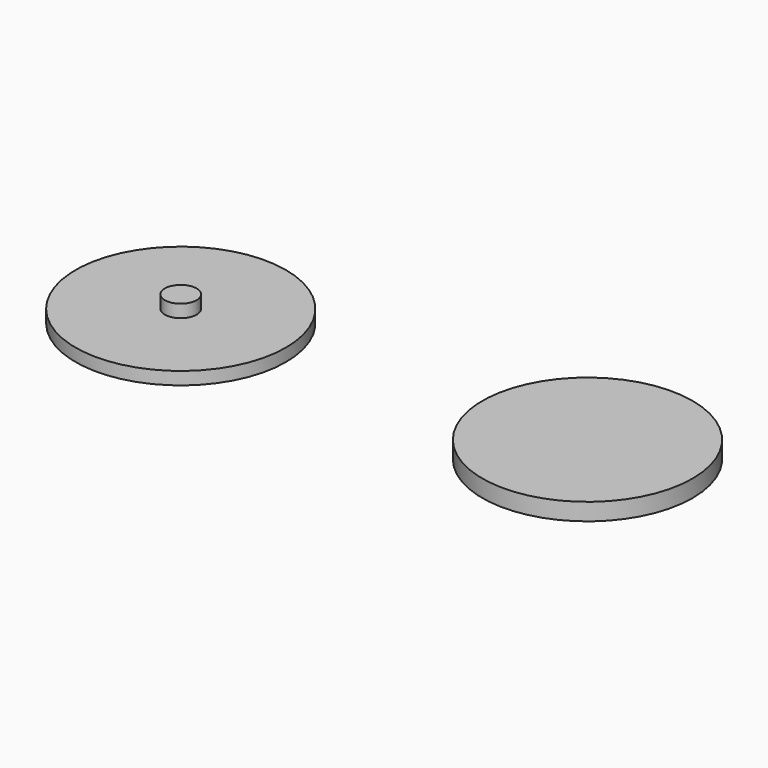
from build123d import *

# Parameters (mm, degrees)
F0_R     = 165
F1_DEPTH = 20
F2_R     = 165
F3_DEPTH = 27
F4_R     = 25
F5_DEPTH = 20
F6_R     = 25
F7_DEPTH = 16


with BuildPart() as f1:
    # F0 (on Top) → F1 (new body)
    with BuildSketch(Plane.XY):
        with Locations((-352.568833, 0)):
            Circle(F0_R)
    extrude(amount=F1_DEPTH)

    # F4 (on face) → F5 (join)
    with BuildSketch(Plane.XY.offset(20)):
        with Locations((-352.568833, 0)):
            Circle(F4_R)
    extrude(amount=F5_DEPTH)


with BuildPart() as f3:
    # F2 (on Top) → F3 (new body)
    with BuildSketch(Plane.XY):
        with Locations((261.95699, 29.615719)):
            Circle(F2_R)
    extrude(amount=F3_DEPTH)

    # F6 (on face) → F7 (cut)
    with BuildSketch(Plane(origin=(0, 0, 0), x_dir=(1, 0, 0), z_dir=(0, 0, -1))):
        with Locations((261.95699, -29.615719)):
            Circle(F6_R)
    extrude(amount=-F7_DEPTH, mode=Mode.SUBTRACT)


solid = Compound([f1.part, f3.part])
